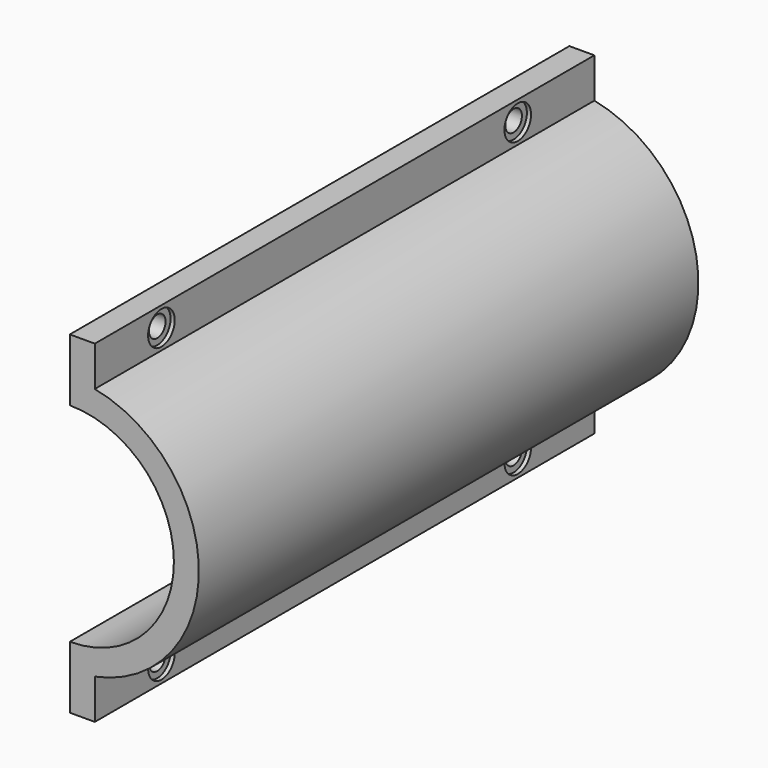
from build123d import *

# Parameters (mm, degrees)
F1_DEPTH       = 190.5
F3_D           = 6.35
F3_CBORE_D     = 10.16
F3_CBORE_DEPTH = 1.27


with BuildPart() as f1:
    # F0 (on Front) → F1 (new body)
    with BuildSketch(Plane.XZ):
        with BuildLine():
            Line((0, 50.8), (0, 31.75))
            ThreePointArc((0, 31.75), (31.75, 0), (0, -31.75))
            Line((0, -31.75), (0, -50.8))
            Line((0, -50.8), (7.62, -50.8))
            Line((7.62, -50.8), (7.62, -38.625542))
            ThreePointArc((7.62, -38.625542), (39.37, 0), (7.62, 38.625542))
            Line((7.62, 38.625542), (7.62, 50.8))
            Line((7.62, 50.8), (0, 50.8))
        make_face()
    extrude(amount=F1_DEPTH)

    # F3 (through all)
    with Locations(Plane.YZ.offset(7.62)):
        with Locations((-165.1, -44.712771), (-29.21, -44.712771), (-29.21, 44.712771), (-165.1, 44.712771)):
            CounterBoreHole(F3_D / 2, F3_CBORE_D / 2, F3_CBORE_DEPTH)


solid = f1.part
